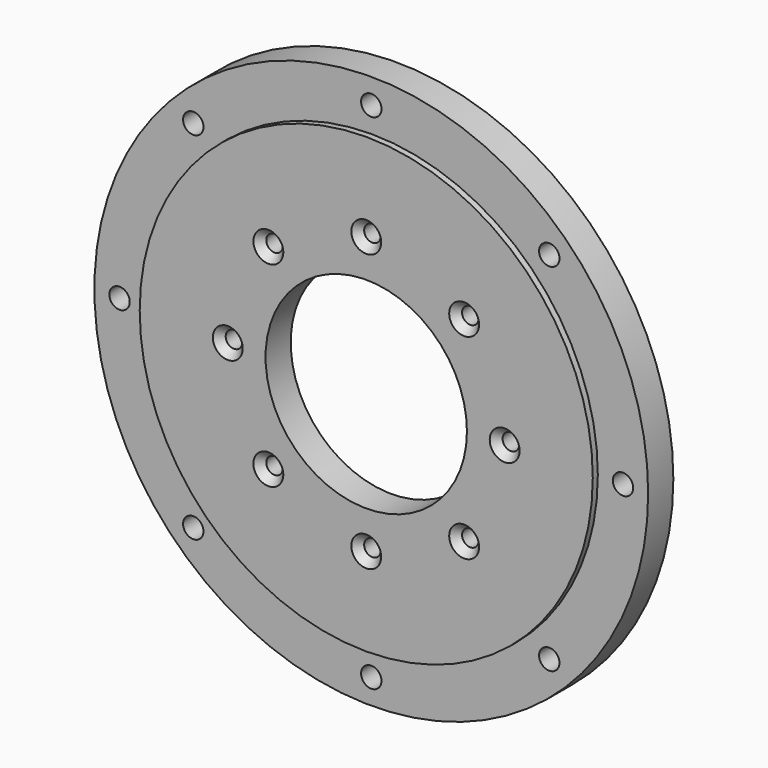
from build123d import *

# Parameters (mm, degrees)
F0_R            = 279.4
F1_DEPTH        = 38.1
F2_R            = 279.4
F2_R_2          = 228.6
F3_DEPTH        = 6.35
F5_D            = 20.574
F6_R            = 101.6
F7_DEPTH        = 38.101
F8_R            = 158.75
F8_R_2          = 101.6
F9_DEPTH        = 6.35
F11_D           = 16.66748
F11_CSINK_D     = 30.1752
F11_CSINK_ANGLE = 82


with BuildPart() as f1:
    # F0 (on Front) → F1 (new body)
    with BuildSketch(Plane.XZ):
        Circle(F0_R)
    extrude(amount=F1_DEPTH)

    # F2 (on face) → F3 (cut)
    with BuildSketch(Plane.XZ.offset(38.1)):
        Circle(F2_R)
        Circle(F2_R_2, mode=Mode.SUBTRACT)
    extrude(amount=-F3_DEPTH, mode=Mode.SUBTRACT)

    # F5 (through all)
    with Locations(Plane.XZ.offset(31.75)):
        with Locations((179.6051224214, 179.6051224214), (254, 0), (179.6051224214, -179.6051224214), (0, -254), (-179.6051224214, -179.6051224214), (0, 254), (-179.6051224214, 179.6051224214), (-254, 0)):
            Hole(F5_D / 2)

    # F6 (on face) → F7 (cut, through all)
    with BuildSketch(Plane.XZ.offset(38.1)):
        Circle(F6_R)
    extrude(amount=-F7_DEPTH, mode=Mode.SUBTRACT)

    # F8 (on face) → F9 (cut)
    with BuildSketch(Plane(origin=(0, 0, 0), x_dir=(-1, 0, 0), z_dir=(0, 1, 0))):
        Circle(F8_R)
        Circle(F8_R_2, mode=Mode.SUBTRACT)
    extrude(amount=-F9_DEPTH, mode=Mode.SUBTRACT)

    # F11 (through all)
    with Locations(Plane.XZ.offset(38.1)):
        with Locations((139.7, 0), (98.7828173318, 98.7828173318), (0, 139.7), (-98.7828173318, 98.7828173318), (-139.7, 0), (-98.7828173318, -98.7828173318), (0, -139.7), (98.7828173318, -98.7828173318)):
            CounterSinkHole(F11_D / 2, F11_CSINK_D / 2, counter_sink_angle=F11_CSINK_ANGLE)


solid = f1.part
